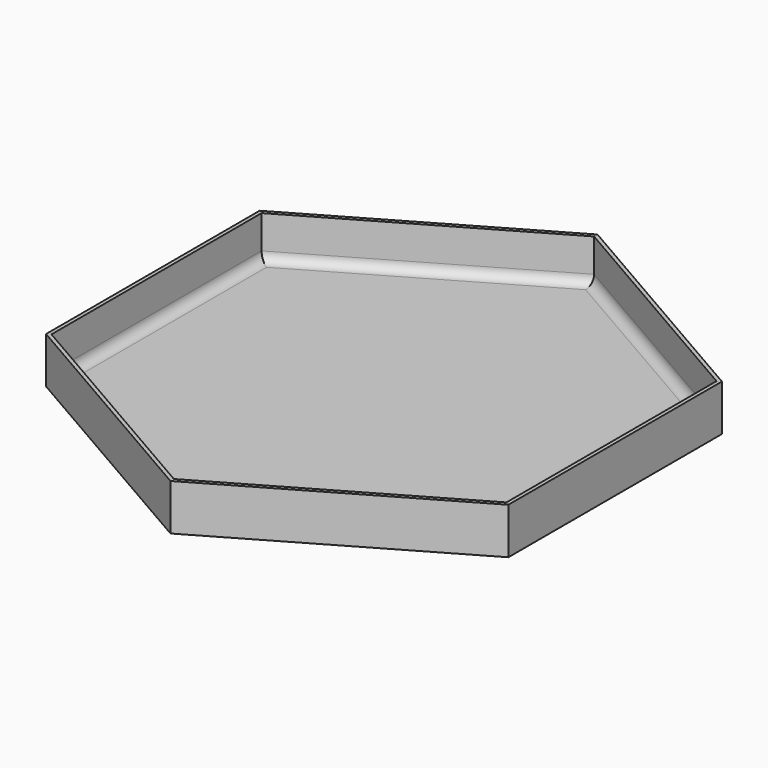
from build123d import *

# Parameters (mm, degrees)
F1_DEPTH = 10
F2_T     = -0.8
F3_R     = 2


with BuildPart() as f1:
    # F0 (on Top) → F1 (new body)
    with BuildSketch(Plane.XY):
        Polygon((53.4592177784, 30.4124803951), (3.4592177784, 59.2799938546), (-46.5407822216, 30.4124803951), (-46.5407822216, -27.3225465238), (3.4592177784, -56.1900599833), (53.4592177784, -27.3225465238), align=None)
    extrude(amount=F1_DEPTH)

    # F2
    f2_openings = [f1.faces().sort_by_distance(p)[0] for p in [
        (3.459218, 1.544967, 10),
    ]]
    offset(amount=F2_T, openings=f2_openings)

    # F3
    f3_edges = [f1.edges().sort_by_distance(p)[0] for p in [
        (28.059218, -41.063483, 0.8),
        (52.659218, 1.544967, 0.8),
        (28.059218, 44.153417, 0.8),
        (-21.140782, 44.153417, 0.8),
        (-45.740782, 1.544967, 0.8),
        (-21.140782, -41.063483, 0.8),
    ]]
    fillet(f3_edges, radius=F3_R)


solid = f1.part
